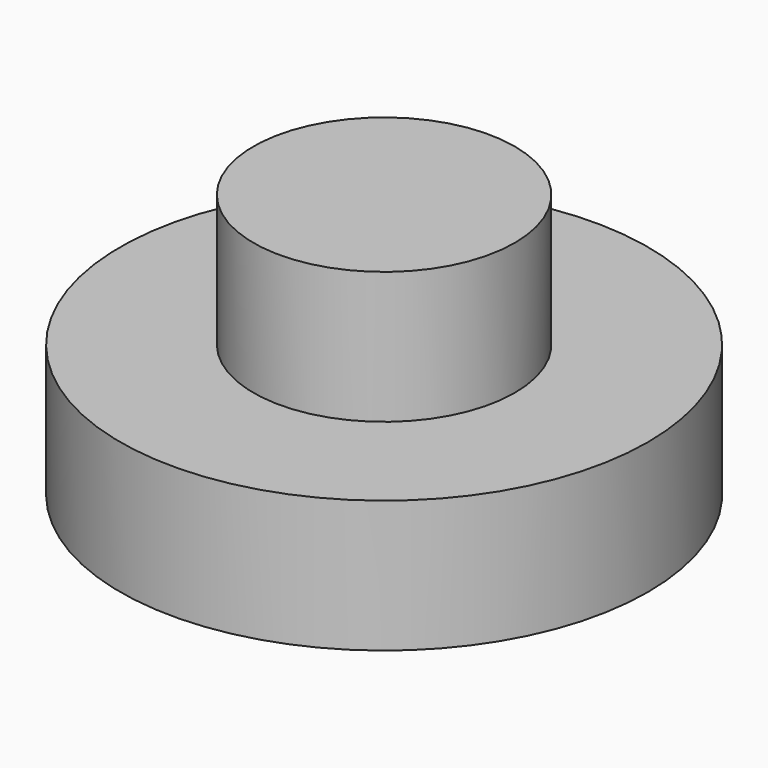
from build123d import *

# Parameters (mm, degrees)
SKETCH_R     = 10
PAD_DEPTH    = 5
SKETCH001_R  = 4.95
PAD001_DEPTH = 10


with BuildPart() as part:
    # Sketch → Pad (new body)
    with BuildSketch(Plane.XY):
        Circle(SKETCH_R)
    extrude(amount=PAD_DEPTH)

    # Sketch001 → Pad001 (join)
    with BuildSketch(Plane.XY):
        Circle(SKETCH001_R)
    extrude(amount=PAD001_DEPTH)


solid = part.part
